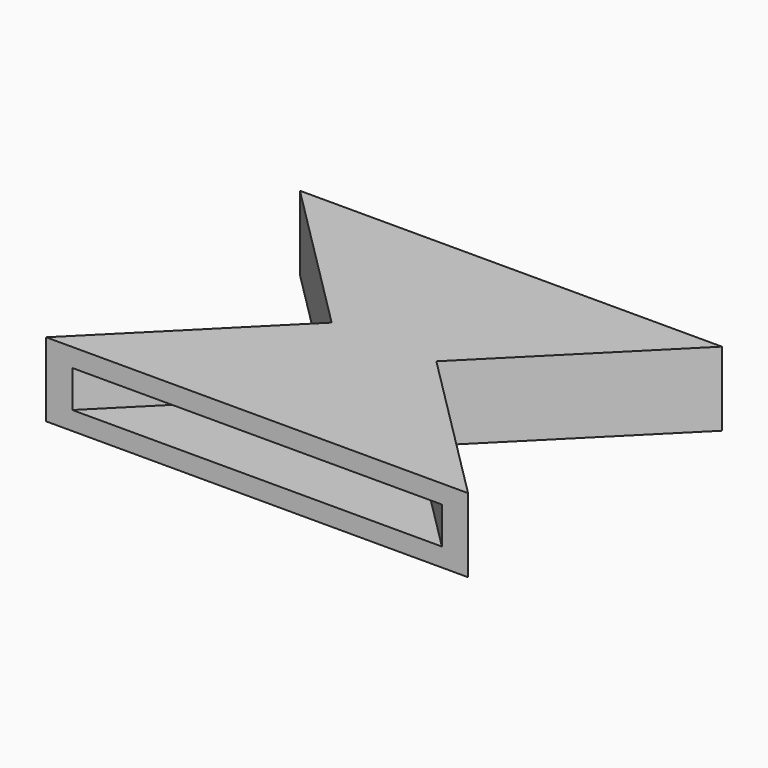
from build123d import *

# Parameters (mm, degrees)
F1_DEPTH = 14
F2_T     = -3.5


with BuildPart() as f1:
    # F0 (on Top) → F1 (new body)
    with BuildSketch(Plane.XY):
        Polygon((39.8995, 30), (-39.8995, 30), (-9.8995, 0), (-39.8995, -30), (39.8995, -30), (9.8995, 0), align=None)
    extrude(amount=F1_DEPTH)

    # F2
    f2_openings = [f1.faces().sort_by_distance(p)[0] for p in [
        (0, -30, 7),
        (0, 30, 7),
    ]]
    offset(amount=F2_T, openings=f2_openings, kind=Kind.INTERSECTION)


solid = f1.part
